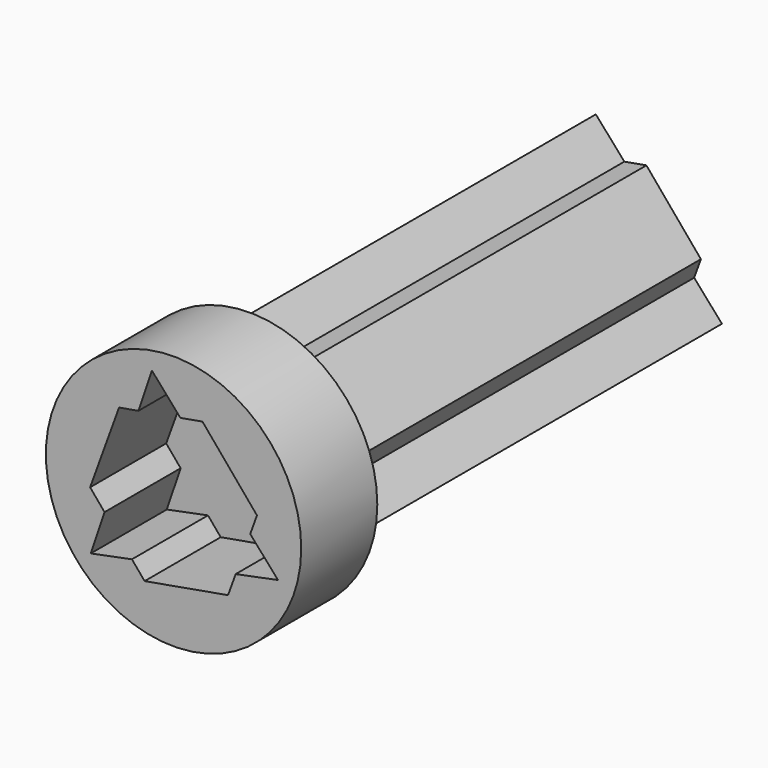
from build123d import *

# Parameters (mm, degrees)
F1_DEPTH = 76.4
F2_R     = 21.2147791917
F3_DEPTH = 15.8


with BuildPart() as f1:
    # F0 (on Front) → F1 (new body)
    with BuildSketch(Plane.XZ):
        Polygon((4.8071848396, 13.2293681837), (1.137845375, 12.5803661785), (12.7427690614, -0.6246234134), (13.8605613429, 2.4515399001), align=None)
        Polygon((-5.8304447869, 11.3478734284), (-9.0533765033, 10.7778282836), (-13.8605613429, -2.4515399001), (-11.463839387, -5.3047800889), align=None)
        Polygon((1.137845375, 12.5803661785), (-5.8304447869, 11.3478734284), (-11.463839387, -5.3047800889), (-6.9123242745, -10.723250015), (10.325994012, -7.2755860896), (12.7427690614, -0.6246234134), align=None)
        Polygon((10.325994012, -7.2755860896), (-6.9123242745, -10.723250015), (-4.8071848396, -13.2293681837), (9.0533765033, -10.7778282836), align=None)
        Polygon((-3.5926098935, 17.9630480707), (-5.8304447869, 11.3478734284), (1.137845375, 12.5803661785), align=None)
        Polygon((17.3527609054, -5.8702326016), (12.7427690614, -0.6246234134), (10.325994012, -7.2755860896), align=None)
        Polygon((-6.9123242745, -10.723250015), (-11.463839387, -5.3047800889), (-13.7601510118, -12.092815469), align=None)
    extrude(amount=F1_DEPTH)

    # F2 (on face) → F3 (join)
    with BuildSketch(Plane.XZ.offset(76.4)):
        Circle(F2_R)
        Polygon((4.8071848396, 13.2293681837), (13.8605613429, 2.4515399001), (12.7427690614, -0.6246234134), (17.3527609054, -5.8702326016), (10.325994012, -7.2755860896), (9.0533765033, -10.7778282836), (-4.8071848396, -13.2293681837), (-6.9123242745, -10.723250015), (-13.7601510118, -12.092815469), (-11.463839387, -5.3047800889), (-13.8605613429, -2.4515399001), (-9.0533765033, 10.7778282836), (-5.8304447869, 11.3478734284), (-3.5926098935, 17.9630480707), (1.137845375, 12.5803661785), align=None, mode=Mode.SUBTRACT)
    extrude(amount=F3_DEPTH)


solid = f1.part
